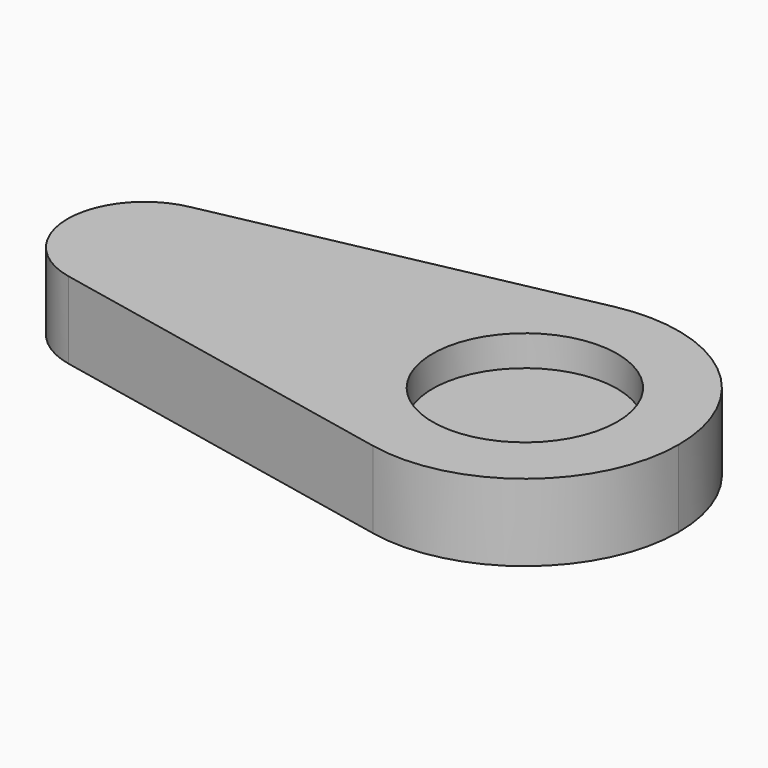
from build123d import *

# Parameters (mm, degrees)
F1_DEPTH = 25
F2_R     = 30
F3_DEPTH = 10


with BuildPart() as f1:
    # F0 (on Top) → F1 (new body)
    with BuildSketch(Plane.XY):
        with BuildLine():
            ThreePointArc((-5.057274, -24.483137), (15.788733, -19.383393), (25, 0))
            ThreePointArc((25, 0), (15.788733, 19.383393), (-5.057274, 24.483137))
            ThreePointArc((-5.057274, 24.483137), (-25, 0), (-5.057274, -24.483137))
        make_face()
        with BuildLine():
            ThreePointArc((-5.057274, 24.483137), (15.788733, 19.383393), (25, 0))
            ThreePointArc((25, 0), (15.788733, -19.383393), (-5.057274, -24.483137))
            Line((-5.057274, -24.483137), (113.469819, -48.966273))
            ThreePointArc((113.469819, -48.966273), (73.584367, 0), (113.469819, 48.966273))
            Line((113.469819, 48.966273), (-5.057274, 24.483137))
        make_face()
        with BuildLine():
            ThreePointArc((173.584367, 0), (155.161832, 38.766786), (113.469819, 48.966273))
            ThreePointArc((113.469819, 48.966273), (73.584367, 0), (113.469819, -48.966273))
            ThreePointArc((113.469819, -48.966273), (155.161832, -38.766786), (173.584367, 0))
        make_face()
    extrude(amount=F1_DEPTH)

    # F2 (on face) → F3 (cut)
    with BuildSketch(Plane.XY.offset(25)):
        with Locations((123.584367, 0)):
            Circle(F2_R)
    extrude(amount=-F3_DEPTH, mode=Mode.SUBTRACT)


solid = f1.part
